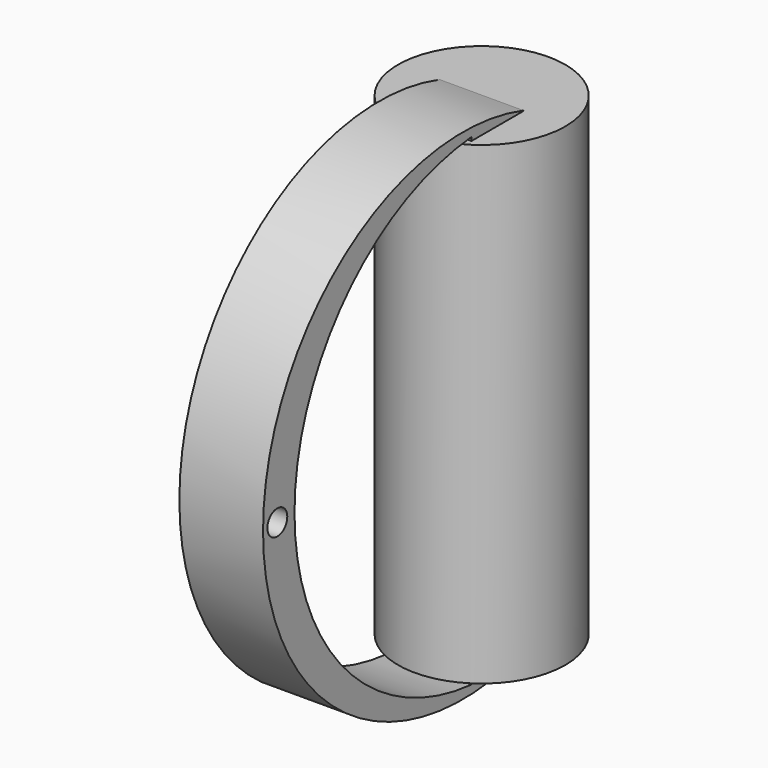
from build123d import *

# Parameters (mm, degrees)
F0_R     = 19.05
F1_DEPTH = 53.975
F2_R     = 2.831223
F3_DEPTH = 9.525


with BuildPart() as f1:
    # F0 (on Top) → F1 (new body, symmetric)
    with BuildSketch(Plane.XY):
        Circle(F0_R)
    extrude(amount=F1_DEPTH, both=True)

    # F2 (on Right) → F3 (join, symmetric)
    with BuildSketch(Plane.YZ):
        with BuildLine():
            Line((0, -54.249428), (0, 54.076027))
            ThreePointArc((0, 54.076027), (-74.126923, -0.086701), (0, -54.249428))
        make_face()
        with Locations((-70.061542, 0)):
            Circle(F2_R, mode=Mode.SUBTRACT)
        with BuildLine():
            ThreePointArc((-14.80739, -54.97568), (-65.170353, -0.086549), (-14.807088, 54.802305))
            Line((-14.807088, 54.802305), (-14.807088, 54.076027))
            Line((-14.807088, 54.076027), (-14.807088, -54.249428))
            Line((-14.807088, -54.249428), (-14.80739, -54.97568))
        make_face(mode=Mode.SUBTRACT)
    extrude(amount=F3_DEPTH, both=True)


solid = f1.part
